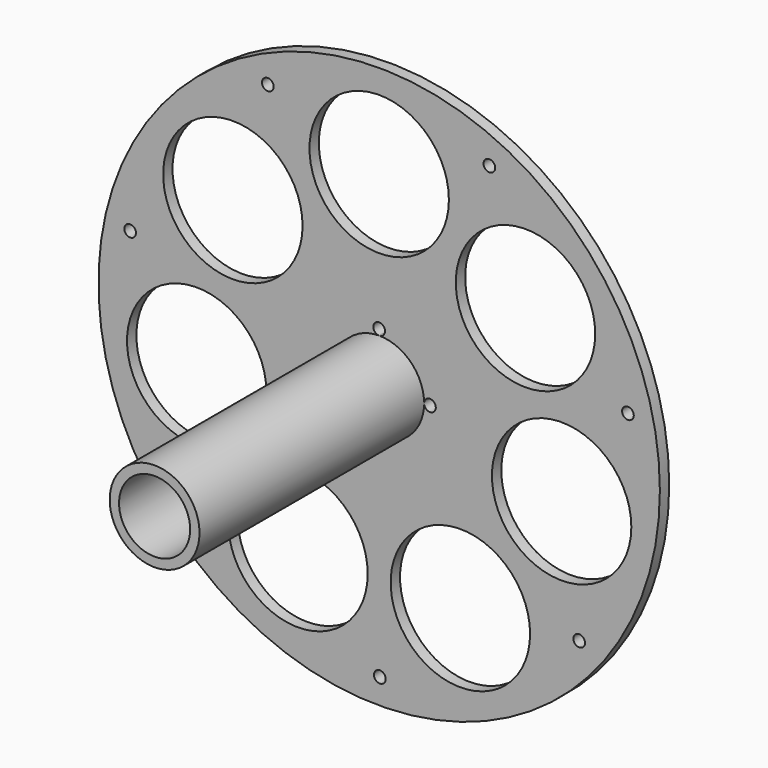
from build123d import *

# Parameters (mm, degrees)
F0_R     = 38.1
F0_R_2   = 9.4615
F0_R_3   = 4.826
F1_DEPTH = 1.5875
F2_R     = 6.096
F2_R_2   = 4.826
F3_DEPTH = 38.1
F4_R     = 0.79375
F5_DEPTH = 282.448


with BuildPart() as f1:
    # F0 (on Front) → F1 (new body)
    with BuildSketch(Plane.XZ):
        Circle(F0_R)
        with Locations((-11.020647, -22.884609)):
            Circle(F0_R_2, mode=Mode.SUBTRACT)
        with Locations((-24.763169, -5.652032)):
            Circle(F0_R_2, mode=Mode.SUBTRACT)
        with Locations((11.020647, -22.884609)):
            Circle(F0_R_2, mode=Mode.SUBTRACT)
        with Locations((24.763169, -5.652032)):
            Circle(F0_R_2, mode=Mode.SUBTRACT)
        with Locations((-19.85852, 15.836641)):
            Circle(F0_R_2, mode=Mode.SUBTRACT)
        Circle(F0_R_3, mode=Mode.SUBTRACT)
        with Locations((19.85852, 15.836641)):
            Circle(F0_R_2, mode=Mode.SUBTRACT)
        with Locations((0, 25.4)):
            Circle(F0_R_2, mode=Mode.SUBTRACT)
    extrude(amount=F1_DEPTH)

    # F2 (on face) → F3 (join)
    with BuildSketch(Plane.XZ.offset(1.5875)):
        Circle(F2_R)
        Circle(F2_R_2, mode=Mode.SUBTRACT)
    extrude(amount=F3_DEPTH)

    # F4 (on face) → F5 (cut)
    with BuildSketch(Plane.XZ.offset(1.5875)):
        with BuildLine():
            ThreePointArc((0.79375, -6.88975), (0.561266, -6.328484), (0, -6.096))
            ThreePointArc((0, -6.096), (-0.561266, -7.451016), (0.79375, -6.88975))
        make_face()
        with BuildLine():
            ThreePointArc((6.096, 0), (6.88975, -0.79375), (7.6835, 0))
            ThreePointArc((7.6835, 0), (6.88975, 0.79375), (6.096, 0))
        make_face()
        with Locations((27.146798, -21.533931)):
            Circle(F4_R)
        with Locations((33.761657, 7.798035)):
            Circle(F4_R)
        with Locations((0.089846, -34.650408)):
            Circle(F4_R)
        with Locations((-27.034762, -21.674421)):
            Circle(F4_R)
        with Locations((-33.801643, 7.622847)):
            Circle(F4_R)
        with Locations((-15.115198, 31.179956)):
            Circle(F4_R)
        with Locations((14.9533, 31.257922)):
            Circle(F4_R)
        with BuildLine():
            ThreePointArc((0.79375, 6.88975), (-0.561266, 7.451016), (0, 6.096))
            ThreePointArc((0, 6.096), (0.561266, 6.328484), (0.79375, 6.88975))
        make_face()
        with Locations((-6.88975, 0)):
            Circle(F4_R)
    extrude(amount=-F5_DEPTH, mode=Mode.SUBTRACT)


solid = f1.part
